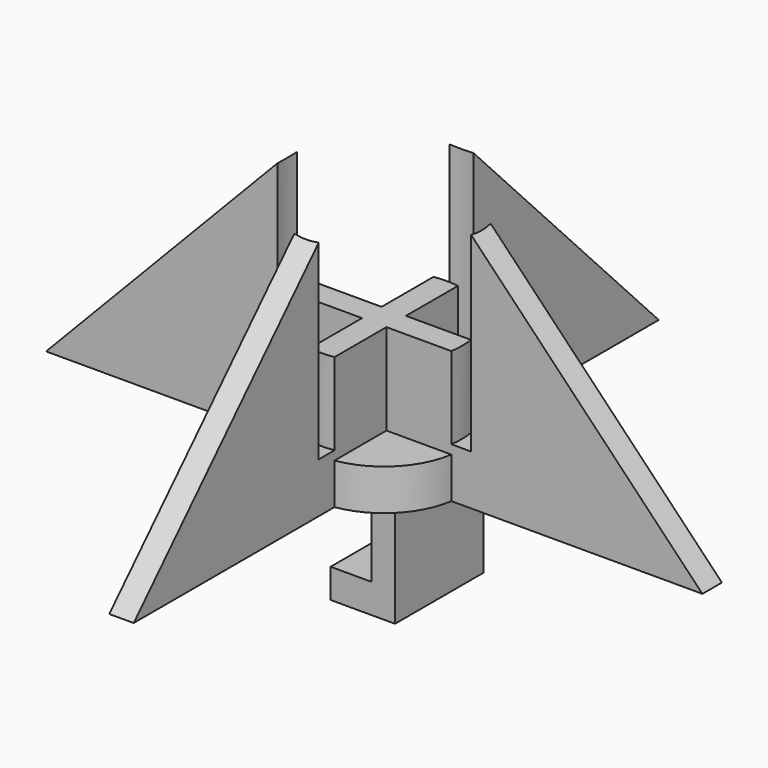
from build123d import *

# Parameters (mm, degrees)
F0_W          = 101.6
F0_H          = 101.6
F1_DEPTH      = 50.8
F3_DEPTH      = 50.801
F5_DEPTH      = 42.6892808993
F5_DEPTH_BACK = 42.6892808993
F7_DEPTH      = 42.6892808993
F7_DEPTH_BACK = 42.6892808993
F9_DEPTH      = 25.4
F9_DEPTH_BACK = 25.4
F10_R         = 12.7
F10_R_2       = 10.16
F11_DEPTH     = 36.068
F12_R         = 10.16
F13_DEPTH     = 25.4
F14_R         = 10.16
F15_DEPTH     = 5.334
F16_W         = 3.048
F16_H         = 14.3684097937
F17_DEPTH     = 12.7
F18_W         = 14.3684097937
F18_H         = 3.81
F19_DEPTH     = 5.334


with BuildPart() as f1:
    # F0 (on Top) → F1 (new body)
    with BuildSketch(Plane.XY):
        Rectangle(F0_W, F0_H)
    extrude(amount=F1_DEPTH)

    # F2 (on face) → F3 (cut, through all)
    with BuildSketch(Plane.XY.offset(50.8)):
        Polygon((-1.5875, 50.8), (-50.8, 50.8), (-50.8, 1.5875), (-50.8, -1.5875), (-50.8, -50.8), (-1.5875, -50.8), (1.5875, -50.8), (50.8, -50.8), (50.8, -1.5875), (50.8, 1.5875), (50.8, 50.8), (1.5875, 50.8), align=None)
        Polygon((-42.6882808993, -1.5875), (-42.6882808993, 1.5875), (-1.5875, 1.5875), (-1.5875, 42.6882808993), (1.5875, 42.6882808993), (1.5875, 1.5875), (42.6882808993, 1.5875), (42.6882808993, -1.5875), (1.5875, -1.5875), (1.5875, -42.6882808993), (-1.5875, -42.6882808993), (-1.5875, -1.5875), align=None, mode=Mode.SUBTRACT)
    extrude(amount=-F3_DEPTH, mode=Mode.SUBTRACT)

    # F4 (on Front) → F5 (cut, two sides)
    with BuildSketch(Plane.XZ) as f5_sk:
        Polygon((0, 44.45), (42.6882808993, 0), (42.6882808993, 50.8), (-42.6882808993, 50.8), (-42.6882808993, 0), align=None)
    extrude(amount=-F5_DEPTH, mode=Mode.SUBTRACT)
    extrude(f5_sk.sketch, amount=F5_DEPTH_BACK, mode=Mode.SUBTRACT)

    # F6 (on Right) → F7 (cut, two sides)
    with BuildSketch(Plane.YZ) as f7_sk:
        Polygon((-42.6882808993, 50.8), (-42.6882808993, 0), (0, 44.45), (42.6882808993, 0), (42.6882808993, 50.8), align=None)
    extrude(amount=-F7_DEPTH, mode=Mode.SUBTRACT)
    extrude(f7_sk.sketch, amount=F7_DEPTH_BACK, mode=Mode.SUBTRACT)

    # F8 (on Front) → F9 (cut, two sides)
    with BuildSketch(Plane.XZ) as f9_sk:
        Polygon((0, 64.3248185515), (-9.6034230664, 42.5812155008), (15.0393228978, 42.5812155008), align=None)
    extrude(amount=-F9_DEPTH, mode=Mode.SUBTRACT)
    extrude(f9_sk.sketch, amount=F9_DEPTH_BACK, mode=Mode.SUBTRACT)

    # F10 (on face) → F11 (cut)
    with BuildSketch(Plane.XY.offset(42.5812155008)):
        Circle(F10_R)
        Circle(F10_R_2, mode=Mode.SUBTRACT)
    extrude(amount=-F11_DEPTH, mode=Mode.SUBTRACT)

    # F12 (on face) → F13 (cut)
    with BuildSketch(Plane.XY.offset(42.5812155008)):
        Circle(F12_R)
    extrude(amount=-F13_DEPTH, mode=Mode.SUBTRACT)

    # F14 (on Top) → F15 (join)
    with BuildSketch(Plane.XY):
        Circle(F14_R)
    extrude(amount=F15_DEPTH)

    # F16 (on face) → F17 (join)
    with BuildSketch(Plane(origin=(0, 0, 0), x_dir=(1, 0, 0), z_dir=(0, 0, -1))):
        with Locations((5.6602048969, 0)):
            Rectangle(F16_W, F16_H)
    extrude(amount=F17_DEPTH)

    # F18 (on face) → F19 (join)
    with BuildSketch(Plane(origin=(4.1362048969, 0, 0), x_dir=(0, -1, 0), z_dir=(-1, 0, 0))):
        with Locations((0, -10.795)):
            Rectangle(F18_W, F18_H)
    extrude(amount=F19_DEPTH)


solid = f1.part
